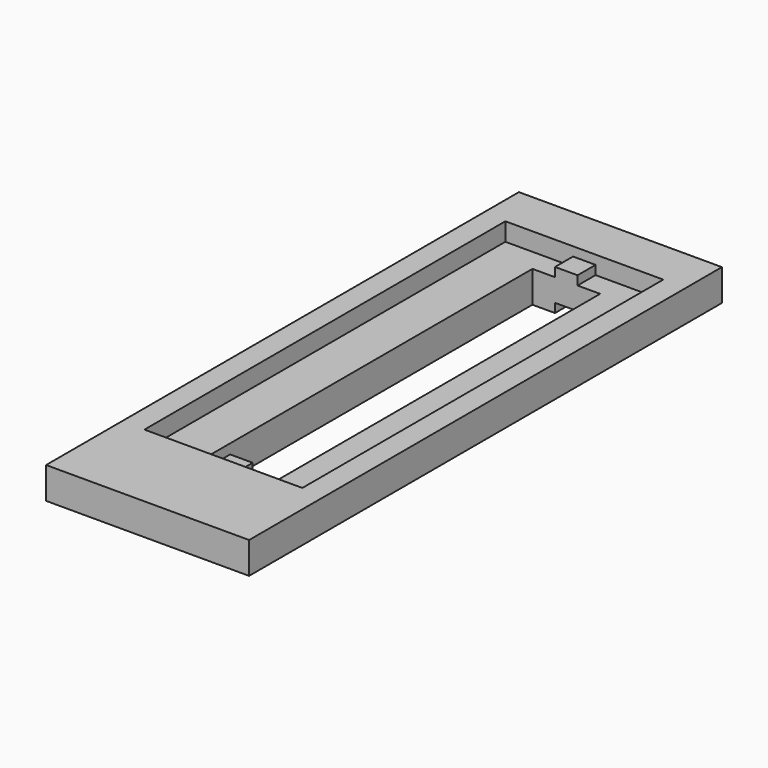
from build123d import *

# Parameters (mm, degrees)
F0_W      = 45
F0_H      = 131
F1_DEPTH  = 2
F2_W      = 45
F2_H      = 131
F3_DEPTH  = 5
F5_W      = 35
F5_H      = 100
F6_DEPTH  = 4
F7_W      = 5
F7_H      = 100
F8_DEPTH  = 2
F4_W      = 15
F4_H      = 90
F9_DEPTH  = 7.001
F10_W     = 5
F10_H     = 5
F13_DEPTH = 2
F12_W     = 5
F12_H     = 5
F14_DEPTH = 4
F11_W     = 10
F11_H     = 100
F15_DEPTH = 4


with BuildPart() as f1:
    # F0 (on Top) → F1 (new body)
    with BuildSketch(Plane.XY):
        with Locations((22.5, 65.5)):
            Rectangle(F0_W, F0_H)
    extrude(amount=F1_DEPTH)

    # F2 (on face) → F3 (join)
    with BuildSketch(Plane.XY.offset(2)):
        with Locations((22.5, 65.5)):
            Rectangle(F2_W, F2_H)
    extrude(amount=F3_DEPTH)

    # F5 (on face) → F6 (cut)
    with BuildSketch(Plane.XY.offset(7)):
        with Locations((22.5, 71)):
            Rectangle(F5_W, F5_H)
    extrude(amount=-F6_DEPTH, mode=Mode.SUBTRACT)

    # F7 (on face) → F8 (join)
    with BuildSketch(Plane.XY.offset(3)):
        with Locations((22.5, 71)):
            Rectangle(F7_W, F7_H)
    extrude(amount=F8_DEPTH)

    # F4 (on face) → F9 (cut, through all)
    with BuildSketch(Plane.XY.offset(7)):
        with Locations((22.5, 71)):
            Rectangle(F4_W, F4_H)
    extrude(amount=-F9_DEPTH, mode=Mode.SUBTRACT)

    # F10 (on face) → F13 (join)
    with BuildSketch(Plane(origin=(0, 0, 0), x_dir=(1, 0, 0), z_dir=(0, 0, -1))):
        with Locations((22.5, -118.5)):
            Rectangle(F10_W, F10_H)
        with Locations((22.5, -23.5)):
            Rectangle(F10_W, F10_H)
    extrude(amount=F13_DEPTH)

    # F12 (on face) → F14 (join)
    with BuildSketch(Plane(origin=(0, 0, 0), x_dir=(1, 0, 0), z_dir=(0, 0, -1))):
        with Locations((17.5, -23.5)):
            Rectangle(F12_W, F12_H)
        with Locations((27.5, -23.5)):
            Rectangle(F12_W, F12_H)
        with Locations((27.5, -118.5)):
            Rectangle(F12_W, F12_H)
        with Locations((17.5, -118.5)):
            Rectangle(F12_W, F12_H)
    extrude(amount=F14_DEPTH)

    # F11 (on face) → F15 (join)
    with BuildSketch(Plane(origin=(0, 0, 0), x_dir=(1, 0, 0), z_dir=(0, 0, -1))):
        with Locations((10, -71)):
            Rectangle(F11_W, F11_H)
        with Locations((35, -71)):
            Rectangle(F11_W, F11_H)
    extrude(amount=F15_DEPTH)


solid = f1.part
